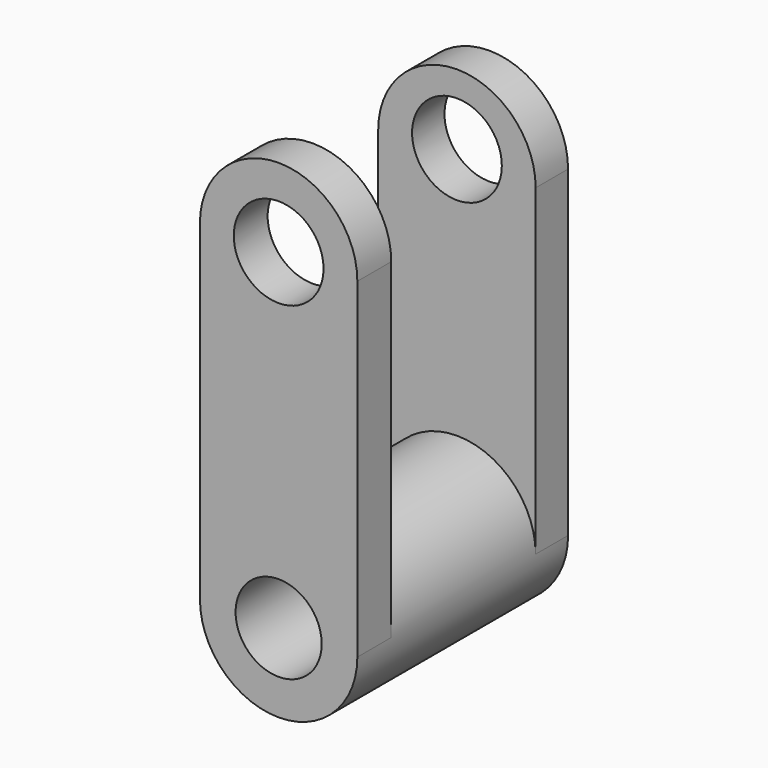
from build123d import *

# Parameters (mm, degrees)
F0_R     = 32.56316
F1_DEPTH = 108.966
F3_DEPTH = 16.764
F5_DEPTH = 17.526
F6_R     = 18.566269
F7_DEPTH = 188.214
F6_R_2   = 17.808278
F8_DEPTH = 219.202


with BuildPart() as f1:
    # F0 (on Front) → F1 (new body)
    with BuildSketch(Plane.XZ):
        Circle(F0_R)
    extrude(amount=F1_DEPTH)

    # F2 (on face) → F3 (join)
    with BuildSketch(Plane(origin=(0, 0, 0), x_dir=(-1, 0, 0), z_dir=(0, 1, 0))):
        with BuildLine():
            ThreePointArc((-32.56316, 0), (0, 32.56316), (32.56316, 0))
            Line((32.56316, 0), (32.56316, 133.426726))
            ThreePointArc((32.56316, 133.426726), (0, 165.989885), (-32.56316, 133.426726))
            Line((-32.56316, 133.426726), (-32.56316, 0))
        make_face()
    extrude(amount=-F3_DEPTH)

    # F4 (on face) → F5 (join)
    with BuildSketch(Plane.XZ.offset(108.966)):
        with BuildLine():
            Line((-32.56316, 136.865824), (-32.56316, 0))
            ThreePointArc((-32.56316, 0), (0, 32.56316), (32.56316, 0))
            Line((32.56316, 0), (32.56316, 136.865824))
            ThreePointArc((32.56316, 136.865824), (0, 169.428984), (-32.56316, 136.865824))
        make_face()
    extrude(amount=-F5_DEPTH)

    # F6 (on face) → F7 (cut)
    with BuildSketch(Plane.XZ.offset(108.966)):
        with Locations((0, 136.865824)):
            Circle(F6_R)
    extrude(amount=-F7_DEPTH, mode=Mode.SUBTRACT)

    # F6 (on face) → F8 (cut)
    with BuildSketch(Plane.XZ.offset(108.966)):
        Circle(F6_R_2)
    extrude(amount=-F8_DEPTH, mode=Mode.SUBTRACT)


solid = f1.part
